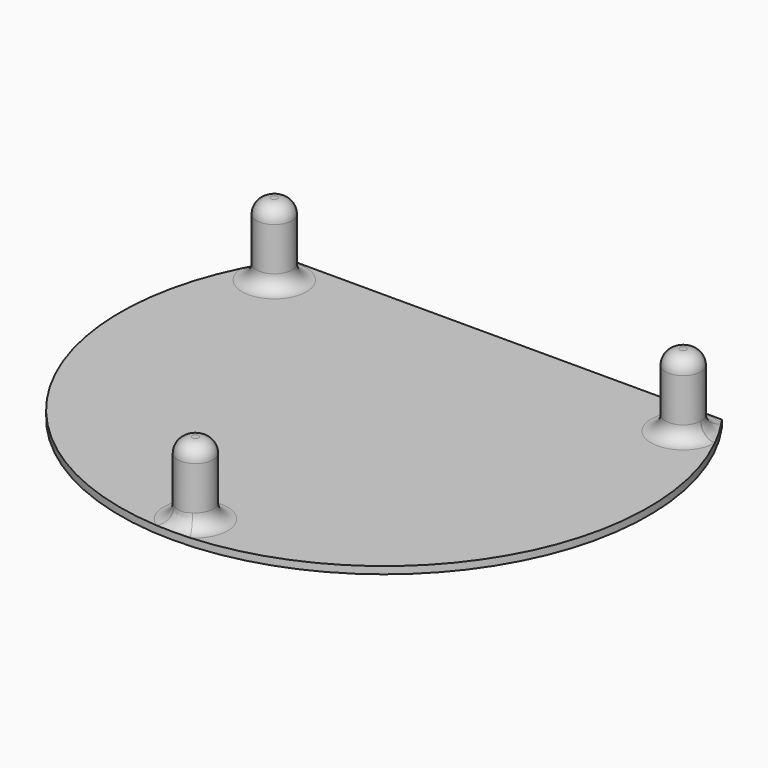
from build123d import *

# Parameters (mm, degrees)
F1_DEPTH = 1
F2_R     = 2.45
F3_DEPTH = 10
F4_R     = 2


with BuildPart() as f1:
    # F0 (on Top) → F1 (new body)
    with BuildSketch(Plane.XY):
        with BuildLine():
            Line((29.85381, 21), (-29.85381, 21))
            ThreePointArc((-29.85381, 21), (0, -36.5), (29.85381, 21))
        make_face()
    extrude(amount=F1_DEPTH)

    # F2 (on face) → F3 (join)
    with BuildSketch(Plane.XY.offset(1)):
        with Locations((0, -32.62469)):
            Circle(F2_R)
        with Locations((28.25381, 16.312345)):
            Circle(F2_R)
        with Locations((-28.25381, 16.312345)):
            Circle(F2_R)
    extrude(amount=F3_DEPTH)

    # F4
    f4_edges = [f1.edges().sort_by_distance(p)[0] for p in [
        (-30.70381, 16.312345, 11),
        (25.80381, 16.312345, 11),
        (-2.45, -32.62469, 11),
        (-30.70381, 16.312345, 1),
        (25.80381, 16.312345, 1),
        (-2.45, -32.62469, 1),
    ]]
    fillet(f4_edges, radius=F4_R)


solid = f1.part
